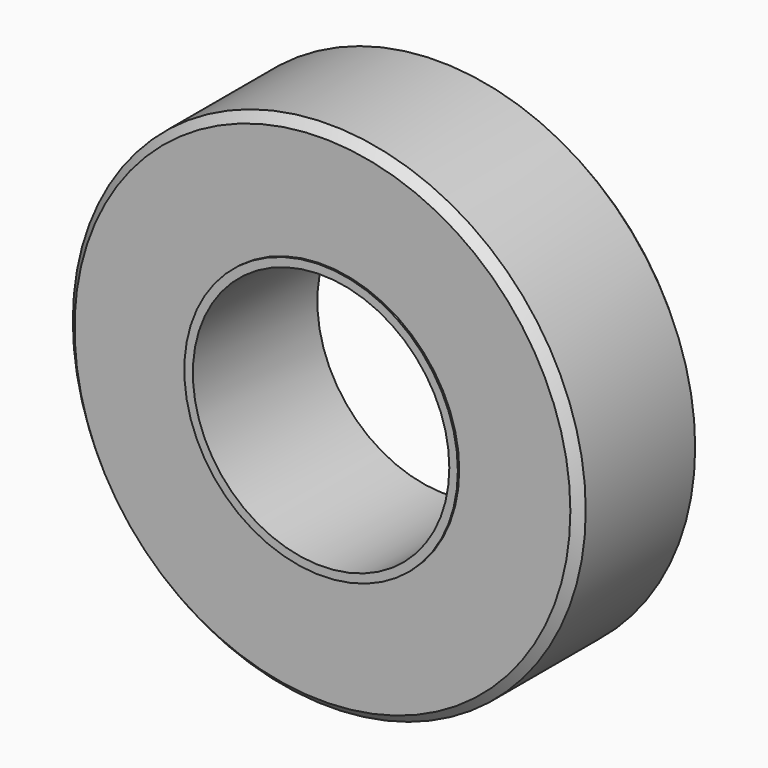
from build123d import *

# Parameters (mm, degrees)
F0_R     = 15
F0_R_2   = 7.5
F1_DEPTH = 9
F2_SIZE  = 0.5
F3_R     = 8
F3_R_2   = 7.5
F4_DEPTH = 0.1


with BuildPart() as f1:
    # F0 (on Front) → F1 (new body)
    with BuildSketch(Plane.XZ):
        Circle(F0_R)
        Circle(F0_R_2, mode=Mode.SUBTRACT)
    extrude(amount=F1_DEPTH)

    # F2
    f2_edges = [f1.edges().sort_by_distance(p)[0] for p in [
        (-15, -9, 0),
        (15, -4.5, 0),
        (-15, 0, 0),
    ]]
    chamfer(f2_edges, length=F2_SIZE)

    # F3 (on face) → F4 (join)
    with BuildSketch(Plane.XZ.offset(9)):
        Circle(F3_R)
        Circle(F3_R_2, mode=Mode.SUBTRACT)
    extrude(amount=F4_DEPTH)


solid = f1.part
